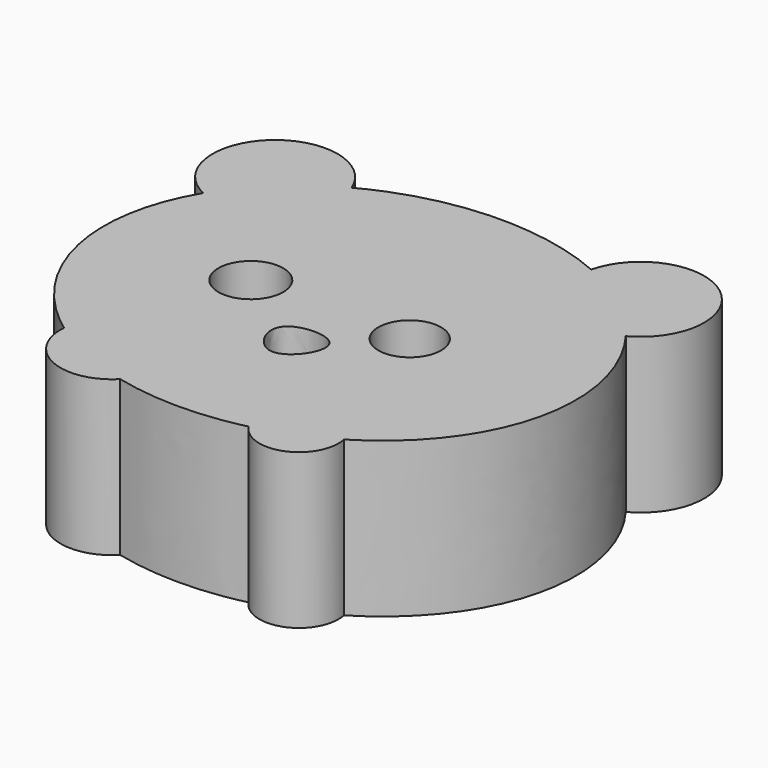
from build123d import *

# Parameters (mm, degrees)
F0_R     = 6.9174599135
F0_R_2   = 6.6953536728
F1_DEPTH = 33.02


with BuildPart() as f1:
    # F0 (on Top) → F1 (new body)
    with BuildSketch(Plane.XY):
        with BuildLine():
            ThreePointArc((13.6920073452, -41.4780412298), (23.9509627201, -44.6805622966), (29.0285234771, -35.2084620371))
            add(Edge.make_bspline(
                [(29.0285234771, -35.2084620371), (68.2918037486, -11.4532756006), (42.3845917945, 23.2317086668)],
                knots=[5.3273150829, 5.3273150829, 5.3273150829, 6.8523899746, 6.8523899746, 6.8523899746], degree=2, weights=[1, 0.7230855783, 1]))
            ThreePointArc((42.3845917945, 23.2317086668), (44.3217640549, 45.8550598259), (22.8771801048, 38.3919188491))
            add(Edge.make_bspline(
                [(22.8771801048, 38.3919188491), (-2.5443945173, 49.5081889699), (-26.727217642, 36.5211438216)],
                knots=[1.0988176954, 1.0988176954, 1.0988176954, 2.1307691564, 2.1307691564, 2.1307691564], degree=2, weights=[1, 0.8698117268, 1]))
            ThreePointArc((-26.727217642, 36.5211438216), (-48.2228883846, 41.3370667245), (-44.8327850103, 19.5709422832))
            add(Edge.make_bspline(
                [(-44.8327850103, 19.5709422832), (-62.9066905476, -10.8120093087), (-32.5500646686, -32.8710234635)],
                knots=[2.6703042477, 2.6703042477, 2.6703042477, 4.0088984161, 4.0088984161, 4.0088984161], degree=2, weights=[1, 0.7842579731, 1]))
            ThreePointArc((-32.5500646686, -32.8710234635), (-26.1357518543, -43.7893377337), (-13.6851041212, -41.479713))
            add(Edge.make_bspline(
                [(-13.6851041212, -41.479713), (0.0037274647, -44.7938672304), (13.6920073452, -41.4780412298)],
                knots=[4.4369485173, 4.4369485173, 4.4369485173, 4.9879720114, 4.9879720114, 4.9879720114], degree=2, weights=[1, 0.9622861083, 1]))
        make_face()
        with Locations((-19.0128814429, 0)):
            Circle(F0_R, mode=Mode.SUBTRACT)
        with BuildLine():
            add(Edge.make_bspline(
                [(-4.6130437404, -10.112545453), (-2.8805919387, -7.2566060297), (10.8589562819, -6.9282740006), (-0.1500027257, -23.178328073), (-6.2456456393, -12.8038827364), (-4.6130437404, -10.112545453)],
                knots=[0, 0, 0, 0, 0.3419572904, 0.6777514266, 1, 1, 1, 1], degree=3))
        make_face(mode=Mode.SUBTRACT)
        with Locations((14.8867378011, 0)):
            Circle(F0_R_2, mode=Mode.SUBTRACT)
    extrude(amount=F1_DEPTH)


solid = f1.part
